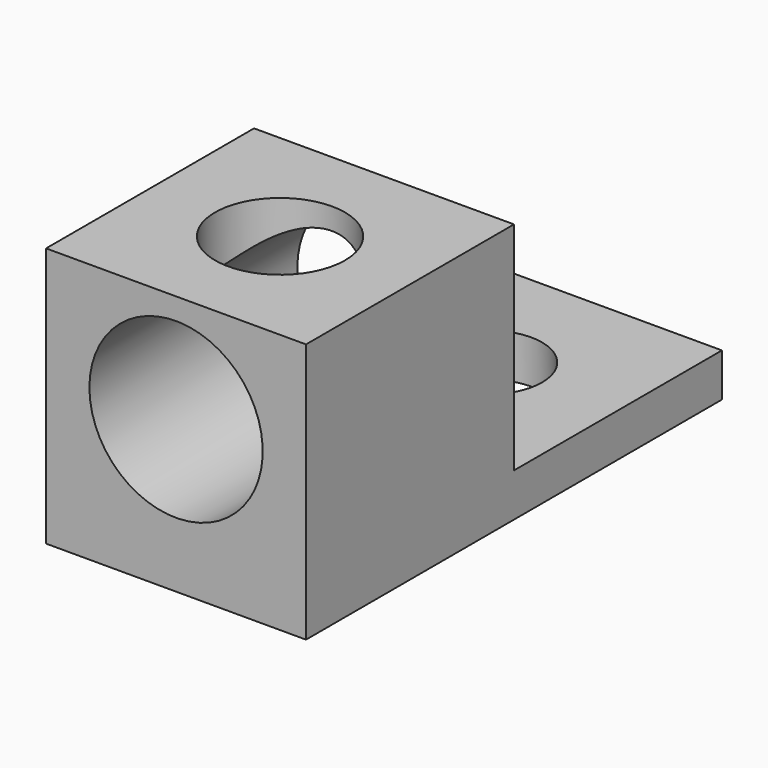
from build123d import *

# Parameters (mm, degrees)
F0_W     = 15.24
F0_H     = 30.48
F1_DEPTH = 2.54
F2_W     = 15.24
F2_H     = 15.24
F3_DEPTH = 12.7
F4_R     = 3.175
F5_DEPTH = 25.4
F6_R     = 5.08
F7_DEPTH = 25.4
F8_R     = 3.81
F9_DEPTH = 3.556


with BuildPart() as f1:
    # F0 (on Top) → F1 (new body)
    with BuildSketch(Plane.XY):
        with Locations((7.62, -15.24)):
            Rectangle(F0_W, F0_H)
    extrude(amount=F1_DEPTH)

    # F2 (on face) → F3 (join)
    with BuildSketch(Plane.XY.offset(2.54)):
        with Locations((7.62, -22.86)):
            Rectangle(F2_W, F2_H)
    extrude(amount=F3_DEPTH)

    # F4 (on face) → F5 (cut)
    with BuildSketch(Plane.XY.offset(2.54)):
        with Locations((7.62, -7.62)):
            Circle(F4_R)
    extrude(amount=-F5_DEPTH, mode=Mode.SUBTRACT)

    # F6 (on face) → F7 (cut)
    with BuildSketch(Plane(origin=(0, -15.24, 0), x_dir=(-1, 0, 0), z_dir=(0, 1, 0))):
        with Locations((-7.62, 8.89)):
            Circle(F6_R)
    extrude(amount=-F7_DEPTH, mode=Mode.SUBTRACT)

    # F8 (on face) → F9 (cut)
    with BuildSketch(Plane.XY.offset(15.24)):
        with Locations((7.62, -22.86)):
            Circle(F8_R)
    extrude(amount=-F9_DEPTH, mode=Mode.SUBTRACT)


solid = f1.part
